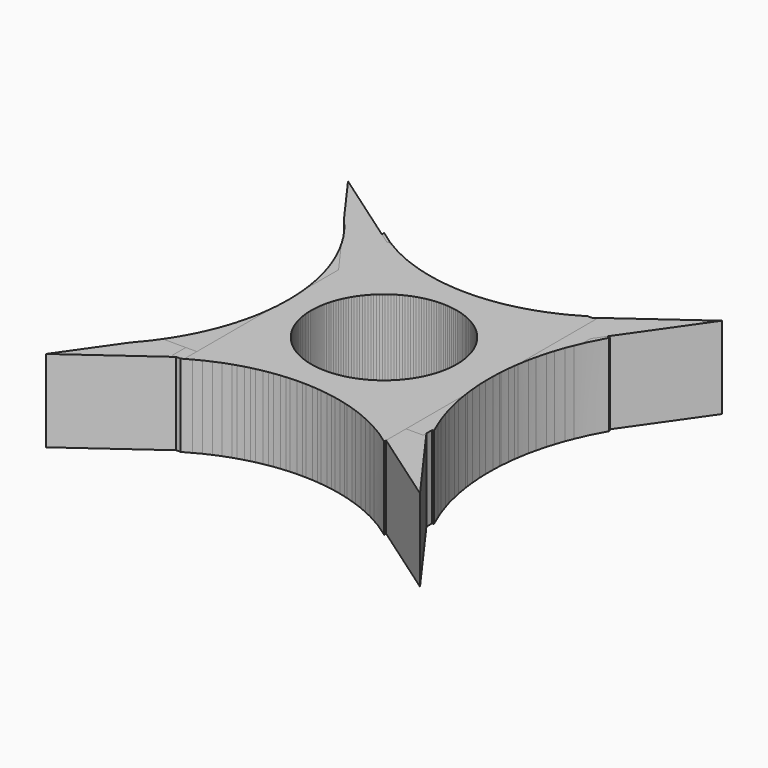
from build123d import *

# Parameters (mm, degrees)
F0_R     = 22.539349
F1_DEPTH = 25.4
F2_DEPTH = 25.4
F4_COUNT = 4
F5_R     = 57.358193
F5_R_2   = 61.556279
F5_R_3   = 69.26363
F5_R_4   = 58.340394
F6_DEPTH = 25.4


with BuildPart() as f1:
    # F0 (on Top) → F1 (new body)
    with BuildSketch(Plane.XY):
        Polygon((42.564563, 34.032691), (-39.341409, 34.032691), (-39.341409, -30.619942), (-20.717202, -30.619942), (42.564563, -30.619942), align=None)
        Circle(F0_R, mode=Mode.SUBTRACT)
    extrude(amount=F1_DEPTH)

    # F0 (on Top) → F2 (join)
    with BuildSketch(Plane.XY):
        Polygon((-20.717202, -30.619942), (-39.341409, -30.619942), (-58.257438, -57.732336), align=None)
    extrude(amount=F2_DEPTH)


with BuildPart() as f4_1:
    # F4: instance of F1
    add(f1.part.rotate(Axis((0, 0, 12.371215), (0, 0, 1)), 1 * 360 / F4_COUNT))


with BuildPart() as f4_2:
    # F4: instance of F1
    add(f1.part.rotate(Axis((0, 0, 12.371215), (0, 0, 1)), 2 * 360 / F4_COUNT))


with BuildPart() as f4_3:
    # F4: instance of F1
    add(f1.part.rotate(Axis((0, 0, 12.371215), (0, 0, 1)), 3 * 360 / F4_COUNT))


with BuildPart() as f6_tool:
    # F5 (on Top) → F6 (new body)
    with BuildSketch(Plane.XY):
        with Locations((1.095151, 87.967679)):
            Circle(F5_R)
        with Locations((-91.790144, 0.920364)):
            Circle(F5_R_2)
        with Locations((102.530583, -1.008815)):
            Circle(F5_R_3)
        with Locations((-0.973841, -89.141804)):
            Circle(F5_R_4)
    extrude(amount=F6_DEPTH)


with BuildPart() as f1_1:
    add(f1.part)

    # F6: cut by f6_tool
    add(f6_tool.part, mode=Mode.SUBTRACT)


with BuildPart() as f4_1_1:
    add(f4_1.part)

    # F6: cut by f6_tool
    add(f6_tool.part, mode=Mode.SUBTRACT)


with BuildPart() as f4_2_1:
    add(f4_2.part)

    # F6: cut by f6_tool
    add(f6_tool.part, mode=Mode.SUBTRACT)


with BuildPart() as f4_3_1:
    add(f4_3.part)

    # F6: cut by f6_tool
    add(f6_tool.part, mode=Mode.SUBTRACT)


solid = Compound([f1_1.part, f4_1_1.part, f4_2_1.part, f4_3_1.part])
